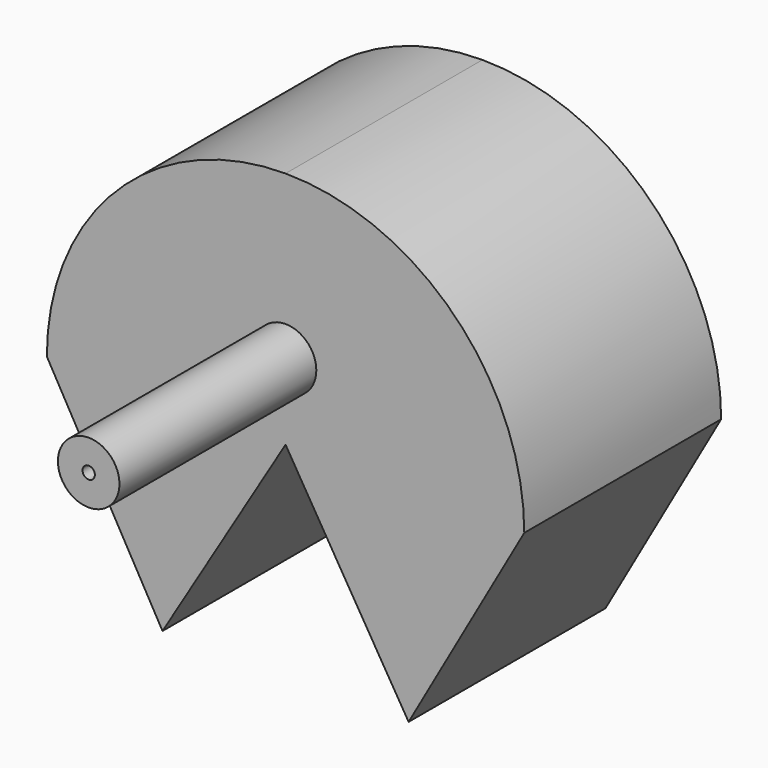
from build123d import *

# Parameters (mm, degrees)
F1_DEPTH = 25.4
F2_R     = 3.175
F3_DEPTH = 25.4
F4_T     = -2.54


with BuildPart() as f1:
    # F0 (on Front) → F1 (new body)
    with BuildSketch(Plane.XZ):
        with BuildLine():
            ThreePointArc((24.638, 0), (17.4216968749, 17.4216968749), (0, 24.638))
            ThreePointArc((0, 24.638), (-17.4216968749, 17.4216968749), (-24.638, 0))
            Line((-24.638, 0), (-12.7, -21.0615165602))
            Line((-12.7, -21.0615165602), (0, 0))
            Line((0, 0), (12.7, -21.0615165602))
            Line((12.7, -21.0615165602), (24.638, 0))
        make_face()
    extrude(amount=F1_DEPTH)

    # F2 (on face) → F3 (join)
    with BuildSketch(Plane.XZ.offset(25.4)):
        with Locations((0, 7.7885312092)):
            Circle(F2_R)
    extrude(amount=F3_DEPTH)

    # F4
    f4_openings = [f1.faces().sort_by_distance(p)[0] for p in [
        (0, -50.8, 7.788531),
    ]]
    offset(amount=F4_T, openings=f4_openings, kind=Kind.INTERSECTION)


solid = f1.part
